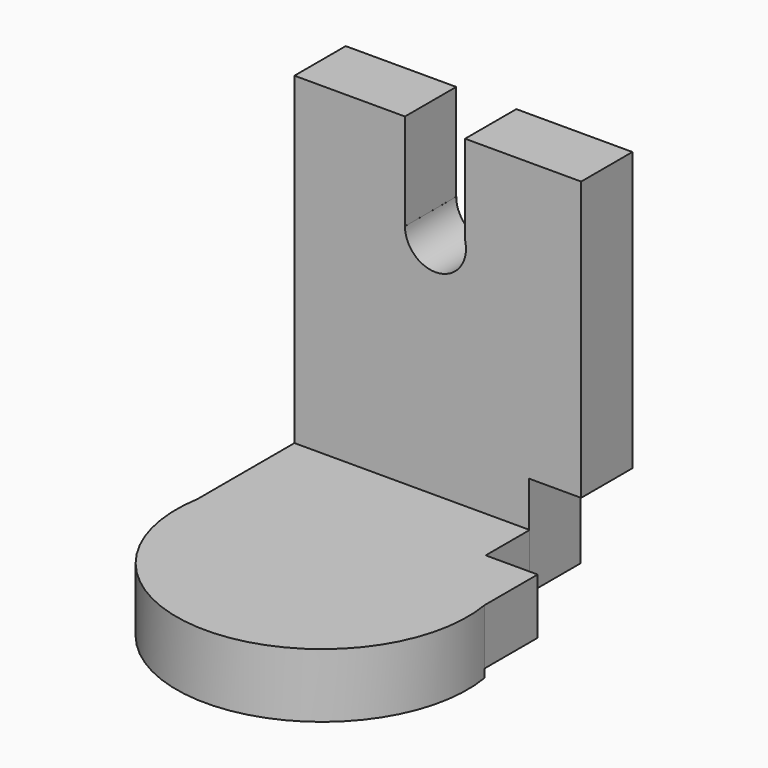
from build123d import *

# Parameters (mm, degrees)
F0_W      = 113.6453635991
F0_H      = 150.3051519394
F1_DEPTH  = 25.4
F3_DEPTH  = 22.098
F4_DEPTH  = 25.4
F6_DEPTH  = 20.828
F7_W      = 21.7994839609
F7_H      = 22.098
F8_DEPTH  = 20.574
F10_DEPTH = 50.8
F12_DEPTH = 25.4
F11_W     = 12.0977328625
F11_H     = 38.3094809949
F11_W_2   = 11.7311349604
F13_DEPTH = 25.4
F15_DEPTH = 25.4


with BuildPart() as f1:
    # F0 (on Front) → F1 (new body)
    with BuildSketch(Plane.XZ):
        with Locations((-1.5580412, -0.9164959192)):
            Rectangle(F0_W, F0_H)
    extrude(amount=F1_DEPTH)

    # F5 (on face) → F6 (cut)
    with BuildSketch(Plane.YZ.offset(55.4479435086)):
        Polygon((7.267320063, -36.1381396651), (-48.2003502548, -36.1381396651), (-48.2003502548, -53.9710718889), (-25.4, -53.9710718889), (-25.4, -76.0690718889), (-48.2003502548, -76.0690718889), (-48.2003502548, -83.4465026855), (7.267320063, -83.4465026855), align=None)
    extrude(amount=-F6_DEPTH, mode=Mode.SUBTRACT)

    # F9 (on face) → F10 (cut)
    with BuildSketch(Plane.XZ.offset(25.4)):
        with BuildLine():
            Line((-2.4745354895, 35.9265990555), (9.6134727356, 35.9265990555))
            ThreePointArc((9.6134727356, 35.9265990555), (6.0729770975, 44.4741116425), (-2.4745354895, 48.0146072806))
            Line((-2.4745354895, 48.0146072806), (-2.4745354895, 35.9265990555))
        make_face()
        with BuildLine():
            Line((-2.4745354895, 35.9265990555), (-2.4745354895, 48.0146072806))
            ThreePointArc((-2.4745354895, 48.0146072806), (-11.0220480765, 44.4741116425), (-14.5625437145, 35.9265990555))
            Line((-14.5625437145, 35.9265990555), (-2.4745354895, 35.9265990555))
        make_face()
        with BuildLine():
            ThreePointArc((-14.5625437145, 35.9265990555), (-2.4745354895, 23.8385908304), (9.6134727356, 35.9265990555))
            Line((9.6134727356, 35.9265990555), (-2.4745354895, 35.9265990555))
            Line((-2.4745354895, 35.9265990555), (-14.5625437145, 35.9265990555))
        make_face()
    extrude(amount=-F10_DEPTH, mode=Mode.SUBTRACT)

    # F11 (on face) → F12 (cut)
    with BuildSketch(Plane.XZ.offset(25.4)):
        with BuildLine():
            Line((-14.5722683519, 35.9265990555), (-14.5625437145, 35.9265990555))
            ThreePointArc((-14.5625437145, 35.9265990555), (-11.0220480765, 44.4741116425), (-2.4745354895, 48.0146072806))
            Line((-2.4745354895, 48.0146072806), (-2.4745354895, 74.2360800505))
            Line((-2.4745354895, 74.2360800505), (-14.5722683519, 74.2360800505))
            Line((-14.5722683519, 74.2360800505), (-14.5722683519, 35.9265990555))
        make_face()
    extrude(amount=-F12_DEPTH, mode=Mode.SUBTRACT)

    # F11 (on face) → F13 (cut)
    with BuildSketch(Plane.XZ.offset(25.4)):
        with Locations((-8.5234019207, 55.081339553)):
            Rectangle(F11_W, F11_H)
        with Locations((3.3910319908, 55.081339553)):
            Rectangle(F11_W_2, F11_H)
    extrude(amount=-F13_DEPTH, mode=Mode.SUBTRACT)


with BuildPart() as f3:
    # F2 (on face) → F3 (new body)
    with BuildSketch(Plane(origin=(0, 0, -76.0690718889), x_dir=(1, 0, 0), z_dir=(0, 0, -1))):
        Polygon((-58.3807229996, 48.0243302882), (-58.3807229996, 25.4), (55.2646405995, 25.4), (55.4479435086, 25.4), (55.4479435086, 48.0243302882), align=None)
    extrude(amount=-F3_DEPTH)

    # F4 (add): a face of the model
    f4_faces = [f3.faces().sort_by_distance(p)[0] for p in [
        (-1.4663897455, -48.0243302882, -65.0200718889),
    ]]
    extrude(f4_faces, amount=F4_DEPTH)

    # F7 (on face) → F8 (cut)
    with BuildSketch(Plane.YZ.offset(55.4479435086)):
        with Locations((-36.2997419804, -65.0200718889)):
            Rectangle(F7_W, F7_H)
    extrude(amount=-F8_DEPTH, mode=Mode.SUBTRACT)

    # F14 (on face) → F15 (join)
    with BuildSketch(Plane.XY.offset(-53.9710718889)):
        with BuildLine():
            Line((55.4479435086, -73.4243302882), (-58.3807229996, -73.4243302882))
            ThreePointArc((-58.3807229996, -73.4243302882), (-1.4663897455, -140.5891922074), (55.4479435086, -73.4243302882))
        make_face()
    extrude(amount=-F15_DEPTH)


solid = Compound([f1.part, f3.part])
